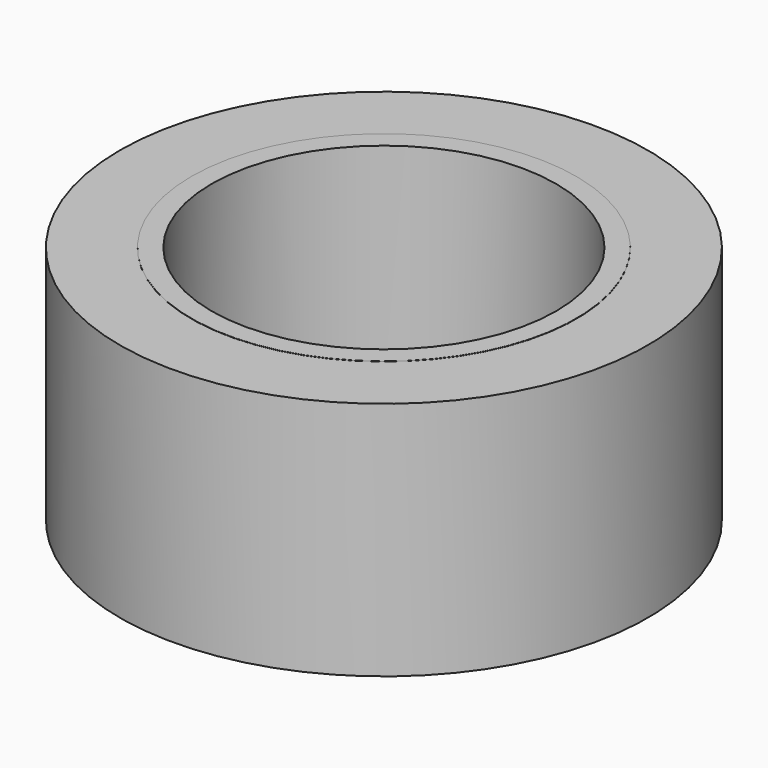
from build123d import *

# Parameters (mm, degrees)
F0_W = 15
F0_H = 50
F1_W = 4.208725
F1_H = 50.100006


with BuildPart() as f2:
    # F0 (on Front) → F2 (revolve)
    with BuildSketch(Plane.XZ):
        with Locations((-47.5, 0)):
            Rectangle(F0_W, F0_H)
    revolve(axis=Axis((0, 0, 0), (0, 0, -1)))

    # F1 (on Front) → F3 (revolve)
    with BuildSketch(Plane.XZ):
        with Locations((-38.000499, -0.005182)):
            Rectangle(F1_W, F1_H)
    revolve(axis=Axis((0, 0, 0), (0, 0, -1)))


solid = f2.part
